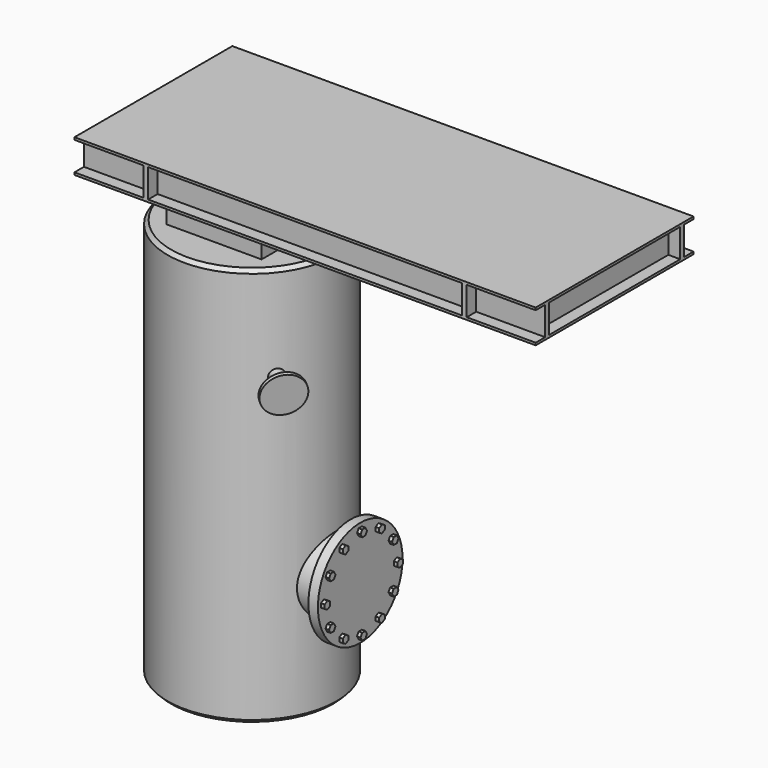
from build123d import *

# Parameters (mm, degrees)
F0_W      = 355
F0_H      = 1682
F2_SIZE   = 15
F3_R      = 75
F4_DEPTH  = 600
F6_R      = 142.5
F7_DEPTH  = 15
F8_R      = 9
F9_DEPTH  = 25
F10_R     = 160
F11_DEPTH = 415
F12_R     = 222.5
F12_R_2   = 160
F13_DEPTH = 40
F15_DEPTH = 15
F16_SIZE  = 15
F17_R     = 85
F18_DEPTH = 120
F20_R     = 142.5
F21_DEPTH = 25
F22_R     = 9
F23_DEPTH = 25
F24_W     = 400
F24_H     = 400
F25_DEPTH = 200
F26_W     = 1940
F26_H     = 830
F27_DEPTH = 140
F33_R     = 30
F34_DEPTH = 100
F35_R     = 82.5
F36_DEPTH = 15
F37_W     = 1320
F37_H     = 120
F37_W_2   = 290
F38_DEPTH = 50
F39_W     = 290
F39_H     = 120
F39_W_2   = 1320
F40_DEPTH = 50
F41_W     = 690
F41_H     = 120
F42_DEPTH = 50
F43_W     = 690
F43_H     = 120
F44_DEPTH = 50
F45_R     = 40
F46_DEPTH = 240
F47_R     = 82.5
F48_DEPTH = 15
F49_R     = 9
F50_DEPTH = 25
F51_R     = 25
F52_DEPTH = 500
F53_R     = 75
F54_DEPTH = 1000


with BuildPart() as f1:
    # F0 (on Front) → F1 (revolve)
    with BuildSketch(Plane.XZ):
        with Locations((177.5, 841)):
            Rectangle(F0_W, F0_H)
    revolve(axis=Axis((0, 0, 841), (0, 0, 1)))

    # F2
    f2_edges = [f1.edges().sort_by_distance(p)[0] for p in [
        (-355, 0, 1682),
    ]]
    chamfer(f2_edges, length=F2_SIZE)

    # F3 (on Front) → F4 (join)
    with BuildSketch(Plane.XZ):
        with Locations((-275, 1001.5)):
            Circle(F3_R)
    extrude(amount=-F4_DEPTH)

    # F6 (on offset) → F7 (join)
    with BuildSketch(Plane(origin=(0, 560, 0), x_dir=(-1, 0, 0), z_dir=(0, 1, 0))):
        with Locations((275, 1001.5)):
            Circle(F6_R)
    extrude(amount=F7_DEPTH)

    # F8 (on face) → F9 (cut)
    with BuildSketch(Plane(origin=(0, 575, 0), x_dir=(-1, 0, 0), z_dir=(0, 1, 0))):
        with Locations((275.5068153991, 881.5010702625)):
            Circle(F8_R)
        with Locations((360.210429558, 917.0063156529)):
            Circle(F8_R)
        with Locations((394.9989297375, 1002.0068153991)):
            Circle(F8_R)
        with Locations((359.4936843471, 1086.710429558)):
            Circle(F8_R)
        with Locations((274.4931846009, 1121.4989297375)):
            Circle(F8_R)
        with Locations((189.789570442, 1085.9936843471)):
            Circle(F8_R)
        with Locations((155.0010702625, 1000.9931846009)):
            Circle(F8_R)
        with Locations((190.5063156529, 916.289570442)):
            Circle(F8_R)
    extrude(amount=-F9_DEPTH, mode=Mode.SUBTRACT)

    # F10 (on Right) → F11 (join)
    with BuildSketch(Plane.YZ):
        with Locations((0, 486)):
            Circle(F10_R)
    extrude(amount=F11_DEPTH)

    # F12 (on face) → F13 (join)
    with BuildSketch(Plane.YZ.offset(415)):
        with Locations((0, 486)):
            Circle(F12_R)
        with Locations((0, 486)):
            Circle(F12_R_2, mode=Mode.SUBTRACT)
        with Locations((0, 486)):
            Circle(F12_R_2)
    extrude(amount=F13_DEPTH)

    # F14 (on face) → F15 (join)
    with BuildSketch(Plane.YZ.offset(455)):
        Polygon((8.4189435217, 309.3140125275), (-8.4189435217, 309.3140125275), (-16.8378870435, 294.7319746017), (-8.4189435217, 280.149936676), (8.4189435217, 280.149936676), (16.8378870435, 294.7319746017), align=None)
        Polygon((81.0519747734, 328.7759745952), (81.0519747734, 311.9380875517), (95.6340126991, 303.5191440299), (110.2160506248, 311.9380875517), (110.2160506248, 328.7759745952), (95.6340126991, 337.1949181169), align=None)
        Polygon((148.8050818831, 390.3659873009), (157.2240254048, 375.7839493752), (174.0619124483, 375.7839493752), (182.4808559701, 390.3659873009), (174.0619124483, 404.9480252266), (157.2240254048, 404.9480252266), align=None)
        Polygon((176.6859874725, 477.5810564783), (191.2680253983, 469.1621129565), (205.850063324, 477.5810564783), (205.850063324, 494.4189435217), (191.2680253983, 502.8378870435), (176.6859874725, 494.4189435217), align=None)
        Polygon((157.2240254048, 567.0519747734), (174.0619124483, 567.0519747734), (182.4808559701, 581.6340126991), (174.0619124483, 596.2160506248), (157.2240254048, 596.2160506248), (148.8050818831, 581.6340126991), align=None)
        Polygon((95.6340126991, 634.8050818831), (110.2160506248, 643.2240254048), (110.2160506248, 660.0619124483), (95.6340126991, 668.4808559701), (81.0519747734, 660.0619124483), (81.0519747734, 643.2240254048), align=None)
        Polygon((8.4189435217, 662.6859874725), (16.8378870435, 677.2680253983), (8.4189435217, 691.850063324), (-8.4189435217, 691.850063324), (-16.8378870435, 677.2680253983), (-8.4189435217, 662.6859874725), align=None)
        Polygon((-81.0519747734, 643.2240254048), (-81.0519747734, 660.0619124483), (-95.6340126991, 668.4808559701), (-110.2160506248, 660.0619124483), (-110.2160506248, 643.2240254048), (-95.6340126991, 634.8050818831), align=None)
        Polygon((-148.8050818831, 581.6340126991), (-157.2240254048, 596.2160506248), (-174.0619124483, 596.2160506248), (-182.4808559701, 581.6340126991), (-174.0619124483, 567.0519747734), (-157.2240254048, 567.0519747734), align=None)
        Polygon((-176.6859874725, 494.4189435217), (-191.2680253983, 502.8378870435), (-205.850063324, 494.4189435217), (-205.850063324, 477.5810564783), (-191.2680253983, 469.1621129565), (-176.6859874725, 477.5810564783), align=None)
        Polygon((-157.2240254048, 404.9480252266), (-174.0619124483, 404.9480252266), (-182.4808559701, 390.3659873009), (-174.0619124483, 375.7839493752), (-157.2240254048, 375.7839493752), (-148.8050818831, 390.3659873009), align=None)
        Polygon((-95.6340126991, 337.1949181169), (-110.2160506248, 328.7759745952), (-110.2160506248, 311.9380875517), (-95.6340126991, 303.5191440299), (-81.0519747734, 311.9380875517), (-81.0519747734, 328.7759745952), align=None)
    extrude(amount=F15_DEPTH)

    # F16
    f16_edges = [f1.edges().sort_by_distance(p)[0] for p in [
        (-355, 0, 0),
    ]]
    chamfer(f16_edges, length=F16_SIZE)

    # F17 (on face) → F18 (join)
    with BuildSketch(Plane(origin=(0, 0, 0), x_dir=(1, 0, 0), z_dir=(0, 0, -1))):
        Circle(F17_R)
    extrude(amount=F18_DEPTH)

    # F20 (on offset) → F21 (join)
    with BuildSketch(Plane(origin=(0, 0, -95), x_dir=(1, 0, 0), z_dir=(0, 0, -1))):
        Circle(F20_R)
    extrude(amount=-F21_DEPTH)

    # F22 (on face) → F23 (cut)
    with BuildSketch(Plane(origin=(0, 0, -95), x_dir=(1, 0, 0), z_dir=(0, 0, -1))):
        with Locations((0, 120)):
            Circle(F22_R)
        with Locations((-84.8528137424, 84.8528137424)):
            Circle(F22_R)
        with Locations((-120, 0)):
            Circle(F22_R)
        with Locations((-84.8528137424, -84.8528137424)):
            Circle(F22_R)
        with Locations((0, -120)):
            Circle(F22_R)
        with Locations((84.8528137424, -84.8528137424)):
            Circle(F22_R)
        with Locations((120, 0)):
            Circle(F22_R)
        with Locations((84.8528137424, 84.8528137424)):
            Circle(F22_R)
    extrude(amount=-F23_DEPTH, mode=Mode.SUBTRACT)

    # F24 (on face) → F25 (join)
    with BuildSketch(Plane.XY.offset(1682)):
        Rectangle(F24_W, F24_H)
    extrude(amount=F25_DEPTH)

    # F26 (on face) → F27 (join)
    with BuildSketch(Plane.XY.offset(1882)):
        with Locations((555, 0)):
            Rectangle(F26_W, F26_H)
    extrude(amount=F27_DEPTH)

    # F33 (on face) → F34 (join)
    with BuildSketch(Plane(origin=(87.178578445, -68.1113702784, -19.5072661754), x_dir=(0.5916766296, 0.7952297616, -0.1323948349), z_dir=(0.7760390996, -0.6063081941, -0.1736481777))):
        with Locations((-177.9456883669, 1311.4417791367)):
            Circle(F33_R)
    extrude(amount=F34_DEPTH)

    # F35 (on face) → F36 (join)
    with BuildSketch(Plane(origin=(164.7824884059, -128.7421896915, -36.8720839421), x_dir=(0.5916766296, 0.7952297616, -0.1323948349), z_dir=(0.7760390996, -0.6063081941, -0.1736481777))):
        with Locations((-177.9456883669, 1311.4417791367)):
            Circle(F35_R)
    extrude(amount=F36_DEPTH)

    # F37 (on face) → F38 (cut)
    with BuildSketch(Plane(origin=(0, 415, 0), x_dir=(-1, 0, 0), z_dir=(0, 1, 0))):
        with Locations((-555, 1952)):
            Rectangle(F37_W, F37_H)
        with Locations((270, 1952)):
            Rectangle(F37_W_2, F37_H)
        with Locations((-1380, 1952)):
            Rectangle(F37_W_2, F37_H)
    extrude(amount=-F38_DEPTH, mode=Mode.SUBTRACT)

    # F39 (on face) → F40 (cut)
    with BuildSketch(Plane.XZ.offset(415)):
        with Locations((1380, 1952)):
            Rectangle(F39_W, F39_H)
        with Locations((555, 1952)):
            Rectangle(F39_W_2, F39_H)
        with Locations((-270, 1952)):
            Rectangle(F39_W, F39_H)
    extrude(amount=-F40_DEPTH, mode=Mode.SUBTRACT)

    # F41 (on face) → F42 (cut)
    with BuildSketch(Plane.YZ.offset(1525)):
        with Locations((0, 1952)):
            Rectangle(F41_W, F41_H)
    extrude(amount=-F42_DEPTH, mode=Mode.SUBTRACT)

    # F43 (on face) → F44 (cut)
    with BuildSketch(Plane(origin=(-415, 0, 0), x_dir=(0, -1, 0), z_dir=(-1, 0, 0))):
        with Locations((0, 1952)):
            Rectangle(F43_W, F43_H)
    extrude(amount=-F44_DEPTH, mode=Mode.SUBTRACT)

    # F45 (on face) → F46 (join)
    with BuildSketch(Plane.YZ.offset(200)):
        with Locations((0, 1782)):
            Circle(F45_R)
    extrude(amount=F46_DEPTH)

    # F47 (on face) → F48 (join)
    with BuildSketch(Plane.YZ.offset(440)):
        with Locations((0, 1782)):
            Circle(F47_R)
    extrude(amount=F48_DEPTH)

    # F49 (on face) → F50 (cut)
    with BuildSketch(Plane.YZ.offset(455)):
        with Locations((0, 1719.5)):
            Circle(F49_R)
        with Locations((62.5, 1782)):
            Circle(F49_R)
        with Locations((0, 1844.5)):
            Circle(F49_R)
        with Locations((-62.5, 1782)):
            Circle(F49_R)
    extrude(amount=-F50_DEPTH, mode=Mode.SUBTRACT)

    # F51 (on face) → F52 (cut)
    with BuildSketch(Plane.YZ.offset(455)):
        with Locations((0, 1782)):
            Circle(F51_R)
    extrude(amount=-F52_DEPTH, mode=Mode.SUBTRACT)

    # F53 (on face) → F54 (cut)
    with BuildSketch(Plane(origin=(0, 0, -120), x_dir=(1, 0, 0), z_dir=(0, 0, -1))):
        Circle(F53_R)
    extrude(amount=-F54_DEPTH, mode=Mode.SUBTRACT)


solid = f1.part
